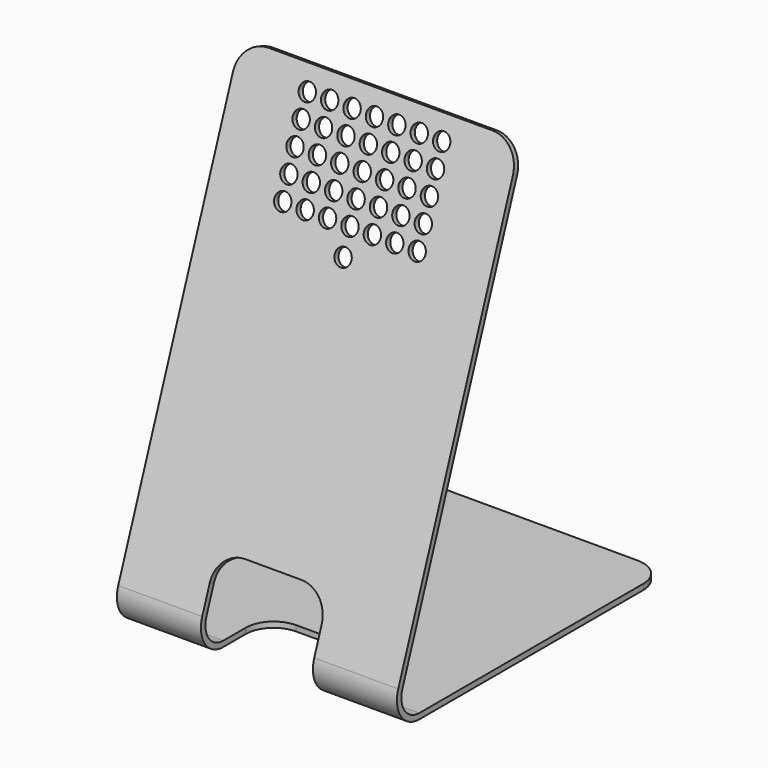
from build123d import *

# Parameters (mm, degrees)
F1_DEPTH  = 50
F2_R      = 10
F4_D      = 6
F5_R      = 3
F6_DEPTH  = 116.7873897197
F7_W      = 40
F7_H      = 34
F8_DEPTH  = 20
F9_W      = 40
F9_H      = 30
F10_DEPTH = 10
F11_R     = 10


with BuildPart() as f1:
    # F0 (on Right) → F1 (new body, symmetric)
    with BuildSketch(Plane.YZ):
        with BuildLine():
            Line((61.3908901802, 162.8224757301), (59.5115049387, 163.5065160167))
            Line((59.5115049387, 163.5065160167), (4.8845538596, 13.4202014333))
            ThreePointArc((4.8845538596, 13.4202014333), (6.0899596245, 4.2642356365), (14.2814800674, 0))
            Line((14.2814800674, 0), (124.2814800674, 0))
            Line((124.2814800674, 0), (124.2814800674, 2))
            Line((124.2814800674, 2), (14.2814800674, 2))
            ThreePointArc((14.2814800674, 2), (7.7282637131, 5.4113885092), (6.7639391011, 12.7361611466))
            Line((6.7639391011, 12.7361611466), (61.3908901802, 162.8224757301))
        make_face()
    extrude(amount=F1_DEPTH, both=True)

    # F2
    f2_edges = [f1.edges().sort_by_distance(p)[0] for p in [
        (-50, 60.451198, 163.164496),
        (50, 60.451198, 163.164496),
        (50, 124.28148, 1),
        (-50, 124.28148, 1),
    ]]
    fillet(f2_edges, radius=F2_R)

    # F4 (through all)
    with Locations(Plane(origin=(0, 0, 0), x_dir=(1, 0, 0), z_dir=(0, -0.9396926208, 0.3420201433))):
        with Locations((0, 125)):
            Hole(F4_D / 2)

    # F5 (on face) → F6 (cut, through all)
    with BuildSketch(Plane(origin=(0, 0, 0), x_dir=(1, 0, 0), z_dir=(0, -0.9396926208, 0.3420201433))):
        with Locations((-24, 134)):
            Circle(F5_R)
        with Locations((-24, 142)):
            Circle(F5_R)
        with Locations((-24, 150)):
            Circle(F5_R)
        with Locations((-24, 158)):
            Circle(F5_R)
        with Locations((-24, 166)):
            Circle(F5_R)
        with Locations((-16, 134)):
            Circle(F5_R)
        with Locations((-16, 142)):
            Circle(F5_R)
        with Locations((-16, 150)):
            Circle(F5_R)
        with Locations((-16, 158)):
            Circle(F5_R)
        with Locations((-16, 166)):
            Circle(F5_R)
        with Locations((-8, 134)):
            Circle(F5_R)
        with Locations((-8, 142)):
            Circle(F5_R)
        with Locations((-8, 150)):
            Circle(F5_R)
        with Locations((-8, 158)):
            Circle(F5_R)
        with Locations((-8, 166)):
            Circle(F5_R)
        with Locations((0, 134)):
            Circle(F5_R)
        with Locations((0, 142)):
            Circle(F5_R)
        with Locations((0, 150)):
            Circle(F5_R)
        with Locations((0, 158)):
            Circle(F5_R)
        with Locations((0, 166)):
            Circle(F5_R)
        with Locations((8, 134)):
            Circle(F5_R)
        with Locations((8, 142)):
            Circle(F5_R)
        with Locations((8, 150)):
            Circle(F5_R)
        with Locations((8, 158)):
            Circle(F5_R)
        with Locations((8, 166)):
            Circle(F5_R)
        with Locations((16, 134)):
            Circle(F5_R)
        with Locations((16, 142)):
            Circle(F5_R)
        with Locations((16, 150)):
            Circle(F5_R)
        with Locations((16, 158)):
            Circle(F5_R)
        with Locations((16, 166)):
            Circle(F5_R)
        with Locations((24, 134)):
            Circle(F5_R)
        with Locations((24, 142)):
            Circle(F5_R)
        with Locations((24, 150)):
            Circle(F5_R)
        with Locations((24, 158)):
            Circle(F5_R)
        with Locations((24, 166)):
            Circle(F5_R)
    extrude(amount=-F6_DEPTH, mode=Mode.SUBTRACT)

    # F7 (on face) → F8 (cut)
    with BuildSketch(Plane(origin=(0, 0, 0), x_dir=(1, 0, 0), z_dir=(0, -0.9396926208, 0.3420201433))):
        with Locations((0, 17)):
            Rectangle(F7_W, F7_H)
    extrude(amount=-F8_DEPTH, mode=Mode.SUBTRACT)

    # F9 (on face) → F10 (cut)
    with BuildSketch(Plane(origin=(0, 0, 0), x_dir=(1, 0, 0), z_dir=(0, 0, -1))):
        with Locations((0, -19.2814800674)):
            Rectangle(F9_W, F9_H)
    extrude(amount=-F10_DEPTH, mode=Mode.SUBTRACT)

    # F11
    f11_edges = [f1.edges().sort_by_distance(p)[0] for p in [
        (-20, 12.568377, 31.607529),
        (-20, 34.28148, 1),
        (20, 12.568377, 31.607529),
        (20, 34.28148, 1),
    ]]
    fillet(f11_edges, radius=F11_R)


solid = f1.part
